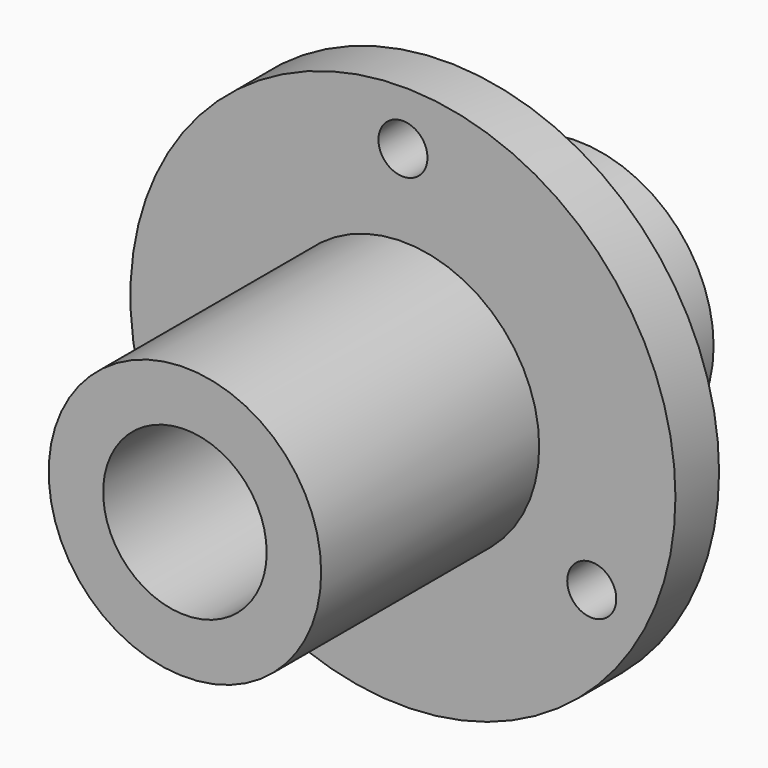
from build123d import *

# Parameters (mm, degrees)
F0_R          = 10
F0_R_2        = 5
F1_DEPTH      = 2
F0_R_3        = 3
F2_DEPTH      = 10
F2_DEPTH_BACK = 8
F3_D          = 1.8


with BuildPart() as f1:
    # F0 (on Front) → F1 (new body)
    with BuildSketch(Plane.XZ):
        Circle(F0_R)
        Circle(F0_R_2, mode=Mode.SUBTRACT)
    extrude(amount=-F1_DEPTH)

    # F0 (on Front) → F2 (join, two sides)
    with BuildSketch(Plane.XZ) as f2_sk:
        Circle(F0_R_2)
        Circle(F0_R_3, mode=Mode.SUBTRACT)
    extrude(amount=F2_DEPTH)
    extrude(f2_sk.sketch, amount=-F2_DEPTH_BACK)

    # F3 (through all)
    with Locations(Plane.XZ):
        with Locations((0, 8), (6.928203, -4), (-6.928203, -4)):
            Hole(F3_D / 2)


solid = f1.part
